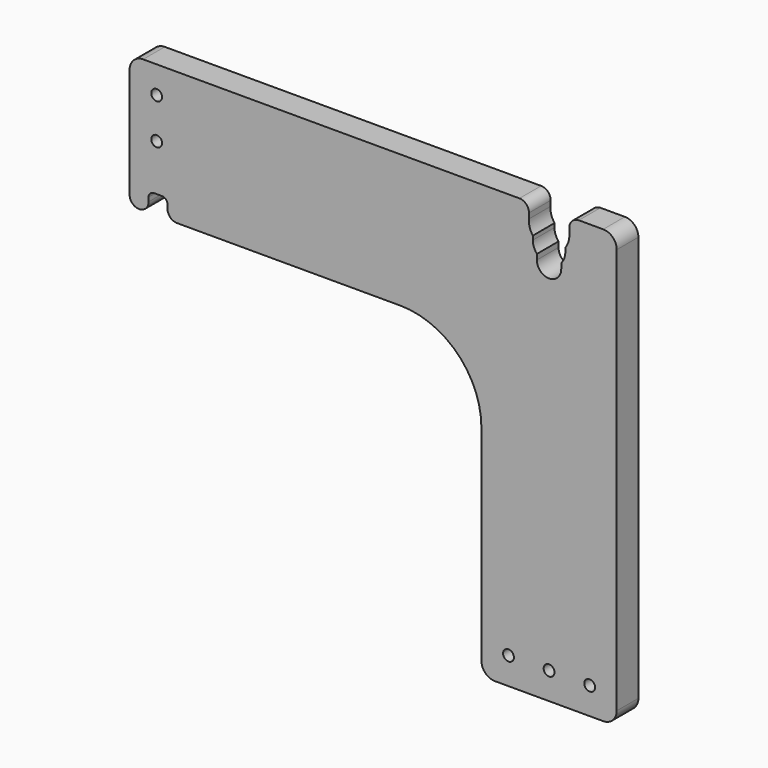
from build123d import *

# Parameters (mm, degrees)
F0_R     = 2
F1_DEPTH = 10


with BuildPart() as f1:
    # F0 (on Front) → F1 (new body)
    with BuildSketch(Plane.XZ):
        with BuildLine():
            ThreePointArc((-141, -30), (-139.974874, -32.474874), (-137.5, -33.5))
            Line((-137.5, -33.5), (-55, -33.5))
            ThreePointArc((-55, -33.5), (-33.786797, -42.286797), (-25, -63.5))
            Line((-25, -63.5), (-25, -139.304042))
            ThreePointArc((-25, -139.304042), (-23.535534, -142.839575), (-20, -144.304042))
            Line((-20, -144.304042), (20, -144.304042))
            ThreePointArc((20, -144.304042), (23.535534, -142.839575), (25, -139.304042))
            Line((25, -139.304042), (25, 10.695958))
            ThreePointArc((25, 10.695958), (23.535534, 14.231492), (20, 15.695958))
            Line((20, 15.695958), (10.995904, 15.695958))
            ThreePointArc((10.995904, 15.695958), (8.52103, 14.670832), (7.495904, 12.195958))
            Line((7.495904, 12.195958), (7.495904, 9.943808))
            ThreePointArc((7.495904, 9.943808), (7.153343, 7.442143), (5.999985, 5.195938))
            Line((5.999985, 5.195938), (5.999985, 3.709538))
            ThreePointArc((5.999985, 3.709538), (5.614844, 1.580886), (4.499852, -0.272836))
            Line((4.499852, -0.272836), (4.499852, -2.267552))
            ThreePointArc((4.499852, -2.267552), (-0.005832, -6.804038), (-4.499742, -2.255887))
            Line((-4.499742, -2.255887), (-4.499742, -0.272961))
            ThreePointArc((-4.499742, -0.272961), (-5.616003, 1.583966), (-5.999966, 3.716286))
            Line((-5.999966, 3.716286), (-5.999966, 5.195912))
            ThreePointArc((-5.999966, 5.195912), (-7.177791, 7.521258), (-7.488602, 10.109288))
            Line((-7.488602, 10.109288), (-7.441414, 12.113578))
            ThreePointArc((-7.441414, 12.113578), (-8.436614, 14.641533), (-10.940444, 15.695958))
            Line((-10.940444, 15.695958), (-150, 15.695958))
            ThreePointArc((-150, 15.695958), (-153.535534, 14.231492), (-155, 10.695958))
            Line((-155, 10.695958), (-155, -30))
            ThreePointArc((-155, -30), (-153.974874, -32.474874), (-151.5, -33.5))
            ThreePointArc((-151.5, -33.5), (-149.025126, -32.474874), (-148, -30))
            Line((-148, -30), (-148, -28.5))
            ThreePointArc((-148, -28.5), (-147.414214, -27.085787), (-146, -26.5))
            Line((-146, -26.5), (-143, -26.5))
            ThreePointArc((-143, -26.5), (-141.585786, -27.085787), (-141, -28.5))
            Line((-141, -28.5), (-141, -30))
        make_face()
        with Locations((-15, -134.304042)):
            Circle(F0_R, mode=Mode.SUBTRACT)
        with Locations((0, -134.304042)):
            Circle(F0_R, mode=Mode.SUBTRACT)
        with Locations((15, -134.304042)):
            Circle(F0_R, mode=Mode.SUBTRACT)
        with Locations((-145, -9.304042)):
            Circle(F0_R, mode=Mode.SUBTRACT)
        with Locations((-145, 5.695958)):
            Circle(F0_R, mode=Mode.SUBTRACT)
    extrude(amount=F1_DEPTH)


solid = f1.part
